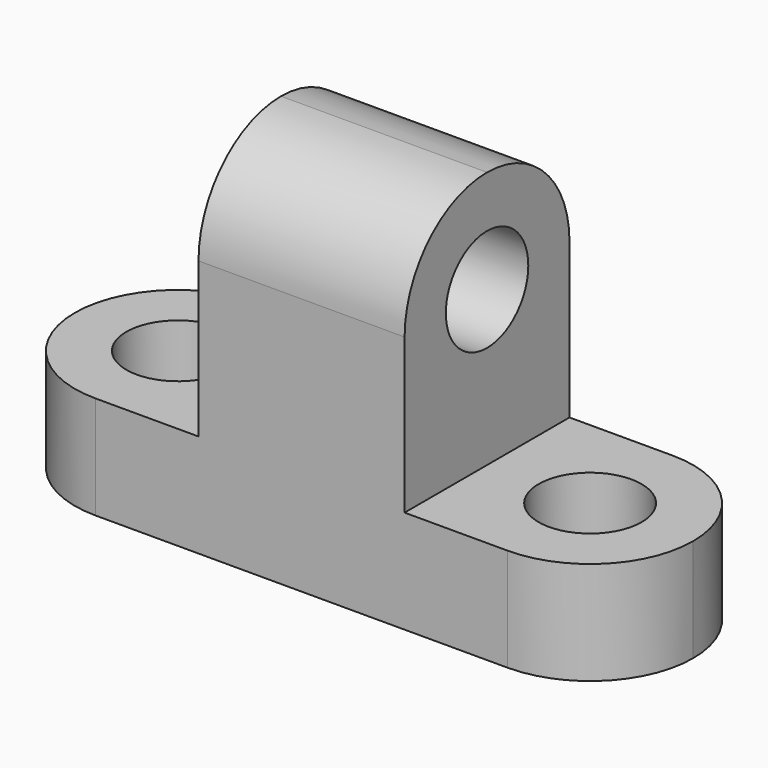
from build123d import *

# Parameters (mm, degrees)
F0_W     = 76.2
F0_H     = 44.45
F1_DEPTH = 25.4
F2_W     = 25.4
F2_H     = 31.75
F3_DEPTH = 25.4
F4_R     = 6.35
F5_DEPTH = 25.4
F6_R     = 6.35
F7_DEPTH = 25.4
F8_R     = 6.35
F9_DEPTH = 25.4


with BuildPart() as f1:
    # F0 (on Front) → F1 (new body)
    with BuildSketch(Plane.XZ):
        with Locations((-38.1, 22.225)):
            Rectangle(F0_W, F0_H)
    extrude(amount=F1_DEPTH)

    # F2 (on face) → F3 (cut)
    with BuildSketch(Plane.XZ.offset(25.4)):
        with Locations((-63.5, 28.575)):
            Rectangle(F2_W, F2_H)
        with Locations((-12.7, 28.575)):
            Rectangle(F2_W, F2_H)
    extrude(amount=-F3_DEPTH, mode=Mode.SUBTRACT)

    # F4 (on face) → F5 (cut)
    with BuildSketch(Plane.YZ.offset(-25.4)):
        with BuildLine():
            ThreePointArc((-25.4, 31.75), (-21.680256, 40.730256), (-12.7, 44.45))
            Line((-12.7, 44.45), (-25.4, 44.45))
            Line((-25.4, 44.45), (-25.4, 31.75))
        make_face()
        with BuildLine():
            ThreePointArc((-12.7, 44.45), (-3.719744, 40.730256), (0, 31.75))
            Line((0, 31.75), (0, 44.45))
            Line((0, 44.45), (-12.7, 44.45))
        make_face()
        with Locations((-12.7, 31.75)):
            Circle(F4_R)
    extrude(amount=-F5_DEPTH, mode=Mode.SUBTRACT)

    # F6 (on face) → F7 (cut)
    with BuildSketch(Plane.XY.offset(12.7)):
        with BuildLine():
            ThreePointArc((0, -12.7), (-3.719744, -21.680256), (-12.7, -25.4))
            Line((-12.7, -25.4), (0, -25.4))
            Line((0, -25.4), (0, -12.7))
        make_face()
        with BuildLine():
            ThreePointArc((-12.7, 0), (-3.719744, -3.719744), (0, -12.7))
            Line((0, -12.7), (0, 0))
            Line((0, 0), (-12.7, 0))
        make_face()
        with Locations((-12.7, -12.7)):
            Circle(F6_R)
    extrude(amount=-F7_DEPTH, mode=Mode.SUBTRACT)

    # F8 (on face) → F9 (cut)
    with BuildSketch(Plane.XY.offset(12.7)):
        with BuildLine():
            ThreePointArc((-76.2, -12.7), (-72.480256, -3.719744), (-63.5, 0))
            Line((-63.5, 0), (-76.2, 0))
            Line((-76.2, 0), (-76.2, -12.7))
        make_face()
        with BuildLine():
            ThreePointArc((-63.5, -25.4), (-72.480256, -21.680256), (-76.2, -12.7))
            Line((-76.2, -12.7), (-76.2, -25.4))
            Line((-76.2, -25.4), (-63.5, -25.4))
        make_face()
        with Locations((-63.5, -12.7)):
            Circle(F8_R)
    extrude(amount=-F9_DEPTH, mode=Mode.SUBTRACT)


solid = f1.part
